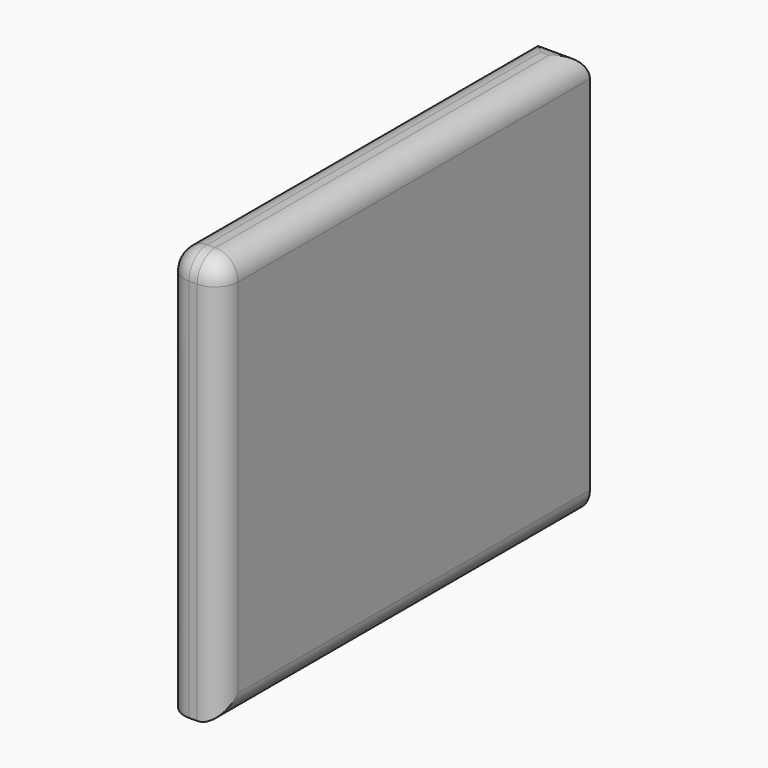
from build123d import *

# Parameters (mm, degrees)
F0_W     = 103.351091
F0_H     = 91.041853
F1_DEPTH = 12
F2_R     = 5.08


with BuildPart() as f1:
    # F0 (on Right) → F1 (new body)
    with BuildSketch(Plane.YZ):
        with Locations((-6.967491, 0.232249)):
            Rectangle(F0_W, F0_H)
    extrude(amount=F1_DEPTH)

    # F2
    f2_edges = [f1.edges().sort_by_distance(p)[0] for p in [
        (6, -58.643036, 45.753175),
        (12, -6.967491, 45.753175),
        (0, -6.967491, 45.753175),
        (6, 44.708055, 45.753175),
        (12, -58.643036, 0.232249),
        (0, -58.643036, 0.232249),
        (12, -6.967491, -45.288678),
    ]]
    fillet(f2_edges, radius=F2_R)


solid = f1.part
